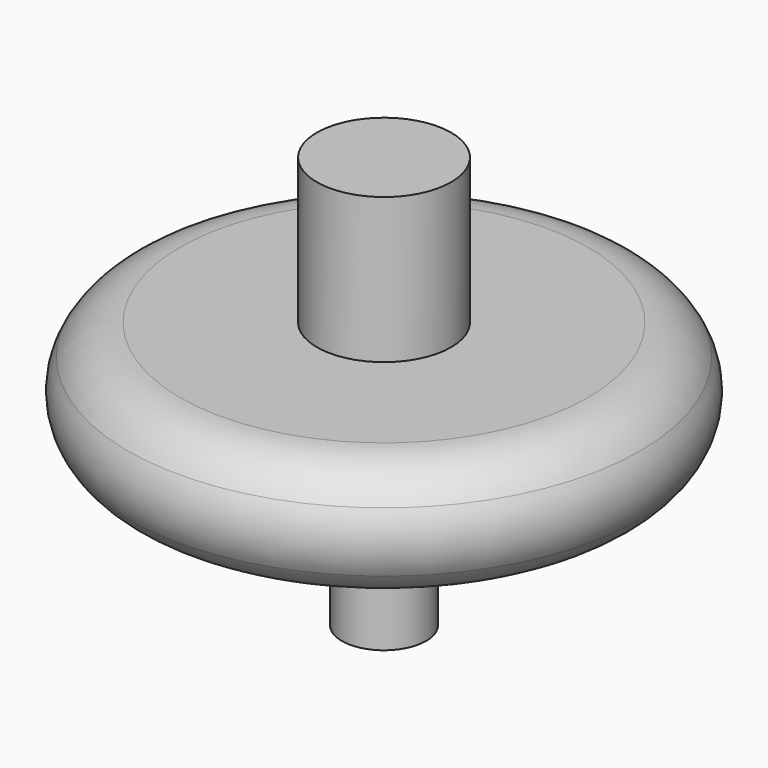
from build123d import *


with BuildPart() as f1:
    # F0 (on Front) → F1 (revolve)
    with BuildSketch(Plane.XZ):
        with BuildLine():
            Line((10.563098, 64.811402), (0, 64.811402))
            Line((0, 64.811402), (0, 0))
            Line((0, 0), (6.634557, 0))
            Line((6.634557, 0), (6.634557, 22.378594))
            Line((6.634557, 22.378594), (32.302174, 23.067055))
            ThreePointArc((32.302174, 23.067055), (36.891893, 24.393379), (40.253477, 27.788142))
            ThreePointArc((40.253477, 27.788142), (41.524539, 32.509229), (40.253477, 37.230316))
            ThreePointArc((40.253477, 37.230316), (36.78458, 40.686795), (32.053696, 41.951402))
            Line((32.053696, 41.951402), (10.563098, 41.951402))
            Line((10.563098, 41.951402), (10.563098, 64.811402))
        make_face()
    revolve(axis=Axis((0, 0, 32.405701), (0, 0, 1)))


solid = f1.part
